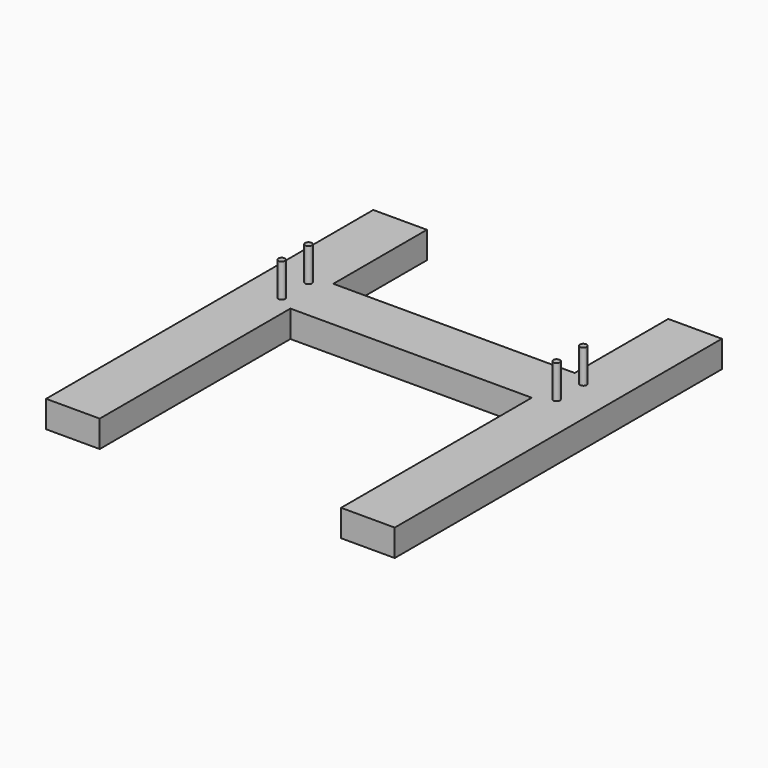
from build123d import *

# Parameters (mm, degrees)
F1_DEPTH = 40
F2_R     = 5
F3_DEPTH = 50


with BuildPart() as f1:
    # F0 (on Top) → F1 (new body)
    with BuildSketch(Plane.XY):
        Polygon((-180, 214.5), (-260, 214.5), (-260, -395.5), (-180, -395.5), (-180, -40), (180, -40), (180, -395.5), (260, -395.5), (260, 214.5), (180, 214.5), (180, 40), (-180, 40), align=None)
    extrude(amount=F1_DEPTH)

    # F2 (on face) → F3 (join)
    with BuildSketch(Plane.XY.offset(40)):
        with Locations((-205, 25)):
            Circle(F2_R)
        with Locations((-205, -25)):
            Circle(F2_R)
        with Locations((205, 25)):
            Circle(F2_R)
        with Locations((205, -25)):
            Circle(F2_R)
    extrude(amount=F3_DEPTH)


solid = f1.part
